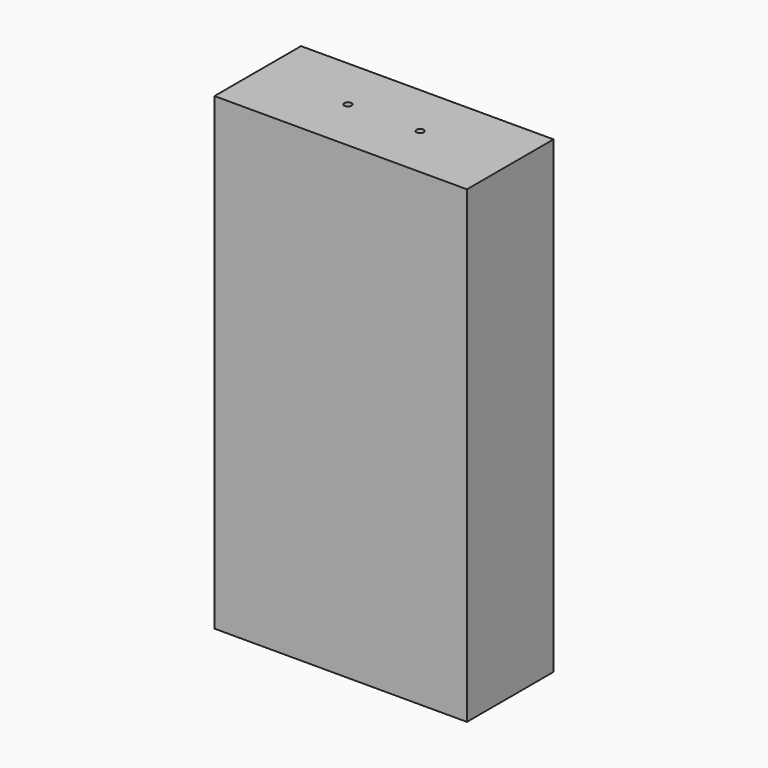
from build123d import *

# Parameters (mm, degrees)
SKETCH002_R      = 1.27
EXTRUDE002_DEPTH = 25.4
SKETCH001_R      = 1.27
EXTRUDE001_DEPTH = 25.4
SKETCH_W         = 88.9
SKETCH_H         = 38.1
EXTRUDE_DEPTH    = 165.1


with BuildPart() as extrude002:
    # Sketch002 → Extrude002 (new body)
    with BuildSketch(Plane(origin=(0, 0, 0), x_dir=(1, 0, 0), z_dir=(0, 0, -1))):
        with Locations((31.75, -19.05)):
            Circle(SKETCH002_R)
        with Locations((57.15, -19.05)):
            Circle(SKETCH002_R)
    extrude(amount=-EXTRUDE002_DEPTH)


with BuildPart() as extrude001:
    # Sketch001 → Extrude001 (new body)
    with BuildSketch(Plane.XY.offset(165.1)):
        with Locations((31.75, 19.05)):
            Circle(SKETCH001_R)
        with Locations((57.15, 19.05)):
            Circle(SKETCH001_R)
    extrude(amount=-EXTRUDE001_DEPTH)


with BuildPart() as cut001:
    # Sketch → Extrude (new body)
    with BuildSketch(Plane.XY):
        with Locations((44.45, 19.05)):
            Rectangle(SKETCH_W, SKETCH_H)
    extrude(amount=EXTRUDE_DEPTH)

    # Cut: cut Extrude001
    add(extrude001.part, mode=Mode.SUBTRACT)

    # Cut001: cut Extrude002
    add(extrude002.part, mode=Mode.SUBTRACT)


solid = cut001.part
